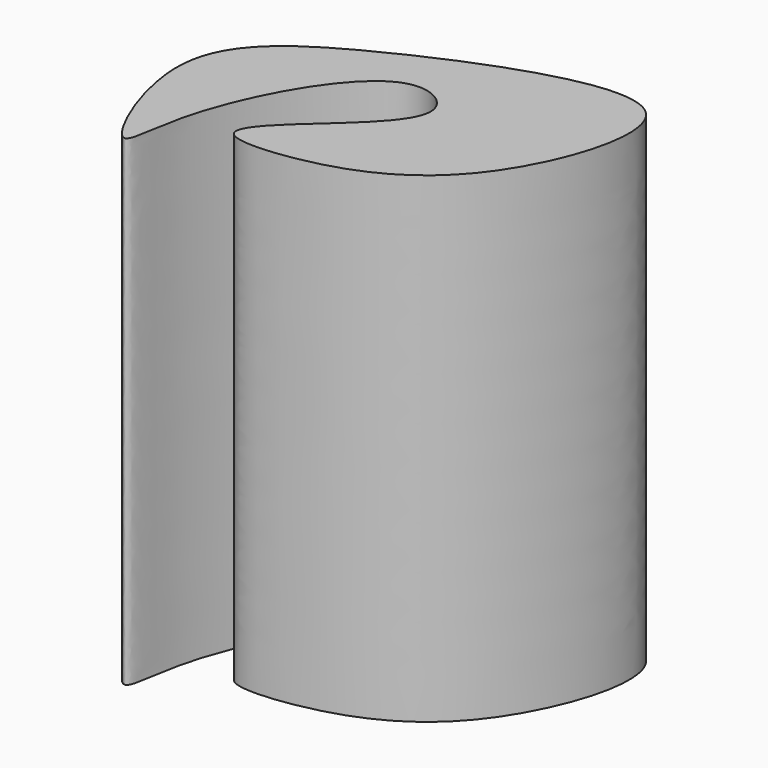
from build123d import *

# Parameters (mm, degrees)
F1_DEPTH = 142.27168262


with BuildPart() as f1:
    # F0 (on Top) → F1 (new body)
    with BuildSketch(Plane.XY):
        with BuildLine():
            add(Edge.make_bspline(
                [(7.2836726904, 11.6877704859), (1.8371631497, 6.544294914), (-6.1525855924, -3.3214185844), (27.4974606576, -1.5204006226), (62.3305453654, 16.2221458792), (84.2751544075, 87.9059689201), (-4.4955480399, 53.6058893061), (-41.3626324717, 26.2018316112), (-15.8172993387, -30.0825169249), (-16.9544946827, 3.7668050099), (10.3375344915, 53.7764899553), (37.751852766, 36.3737758642), (15.7546059913, 19.6873963342), (7.2836726904, 11.6877704859)],
                knots=[0, 0, 0, 0, 0.0577796684, 0.1322342714, 0.2347080406, 0.3391334112, 0.4686122951, 0.5744065059, 0.6701570465, 0.7363610866, 0.8502551173, 0.9101355256, 1, 1, 1, 1], degree=3))
        make_face()
    extrude(amount=F1_DEPTH)


solid = f1.part
